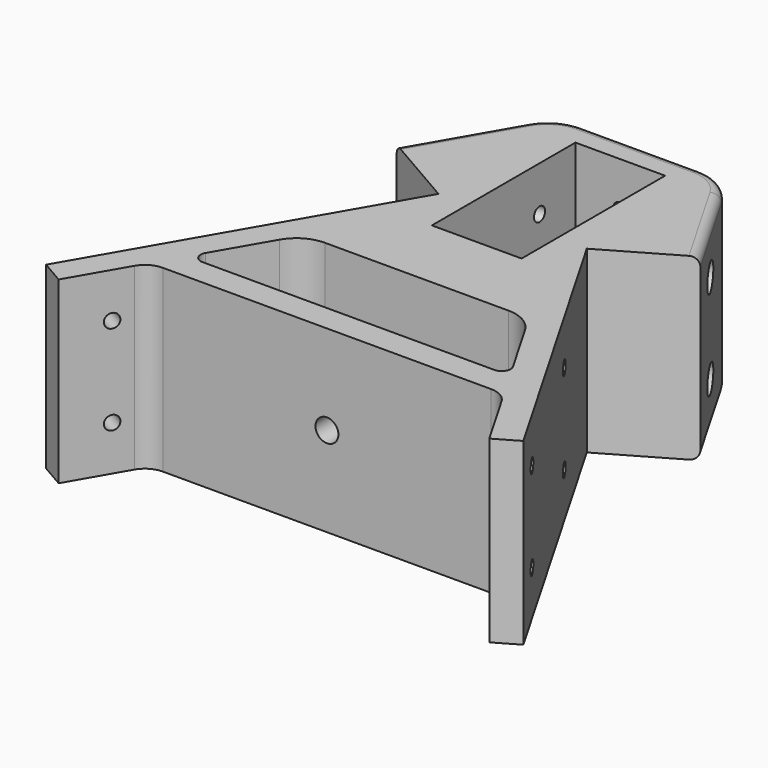
from build123d import *

# Parameters (mm, degrees)
SKETCH184_W          = 20
SKETCH184_H          = 40
PAD049_DEPTH         = 40
SKETCH185_R          = 1.55
POCKET100_DEPTH      = 6
SKETCH186_R          = 1.55
POCKET101_DEPTH      = 6
SKETCH187_R          = 1.55
POCKET102_DEPTH      = 8
SKETCH188_R          = 2.55
POCKET103_DEPTH      = 20
SKETCH189_R          = 2.55
POCKET104_DEPTH      = 14
POCKET105_DEPTH      = 5.5
SKETCH191_R          = 1.55
POCKET106_DEPTH      = 53.206
POCKET106_DEPTH_BACK = 53.206
SKETCH192_R          = 3
POCKET107_DEPTH      = 31.206
SKETCH193_R          = 3
POCKET108_DEPTH      = 31.206
FILLET047_R          = 2


with BuildPart() as part:
    # Sketch184 → Pad049 (new body)
    with BuildSketch(Plane.XY):
        with BuildLine():
            Line((-53.205, 0), (-16.535, 63.5143031136))
            Line((-16.535, 63.5143031136), (-33.8555080757, 73.5143031136))
            Line((-33.8555080757, 73.5143031136), (-21.7278633238, 94.52))
            ThreePointArc((-13.0676092859, 99.52), (-18.0676092859, 98.1802540378), (-21.7278633238, 94.52))
            Line((-13.0676092859, 99.52), (13.0676092859, 99.52))
            ThreePointArc((21.7278633238, 94.52), (18.0676092859, 98.1802540378), (13.0676092859, 99.52))
            Line((33.8555080757, 73.5143031136), (21.7278633238, 94.52))
            Line((16.535, 63.5143031136), (33.8555080757, 73.5143031136))
            Line((53.205, 0), (16.535, 63.5143031136))
            Line((53.205, 0), (48.0088475773, -3))
            Line((48.0088475773, -3), (40.9247597743, 9.27))
            ThreePointArc((40.9247597743, 9.27), (39.0946327554, 11.1001270189), (36.5946327554, 11.77))
            Line((-36.5946327554, 11.77), (36.5946327554, 11.77))
            ThreePointArc((-36.5946327554, 11.77), (-39.0946327554, 11.1001270189), (-40.9247597743, 9.27))
            Line((-48.0088475773, -3), (-40.9247597743, 9.27))
            Line((-53.205, 0), (-48.0088475773, -3))
        make_face()
        with Locations((0, 73.52)):
            Rectangle(SKETCH184_W, SKETCH184_H, mode=Mode.SUBTRACT)
        with BuildLine():
            Line((-27.3570284484, 32.77), (-34.2852316787, 20.77))
            ThreePointArc((-34.2852316787, 20.77), (-34.2852316787, 18.77), (-32.5531808711, 17.77))
            Line((-32.5531808711, 17.77), (32.5531808711, 17.77))
            ThreePointArc((32.5531808711, 17.77), (34.2852316787, 18.77), (34.2852316787, 20.77))
            Line((34.2852316787, 20.77), (27.3570284484, 32.77))
            ThreePointArc((27.3570284484, 32.77), (24.4288252181, 35.6982032303), (20.4288252181, 36.77))
            Line((20.4288252181, 36.77), (-20.4288252181, 36.77))
            ThreePointArc((-20.4288252181, 36.77), (-24.4288252181, 35.6982032303), (-27.3570284484, 32.77))
        make_face(mode=Mode.SUBTRACT)
    extrude(amount=PAD049_DEPTH)

    # Sketch185 (on DatumPlane) → Pocket100 (cut, symmetric)
    with BuildSketch(Plane(origin=(53, 0, 0), x_dir=(-0.5, 0.8660254038, 0), z_dir=(0.8660254038, 0.5, 0))):
        with Locations((47.2375, 30)):
            Circle(SKETCH185_R)
        with Locations((9.8975, 30)):
            Circle(SKETCH185_R)
        with Locations((47.2375, 10)):
            Circle(SKETCH185_R)
        with Locations((9.8975, 10)):
            Circle(SKETCH185_R)
    extrude(amount=POCKET100_DEPTH, both=True, mode=Mode.SUBTRACT)

    # Sketch186 (on DatumPlane) → Pocket101 (cut, symmetric)
    with BuildSketch(Plane(origin=(-53, 0, 0), x_dir=(0.5, 0.8660254038, 0), z_dir=(0.8660254038, -0.5, 0))):
        with Locations((47.2375, 30)):
            Circle(SKETCH186_R)
        with Locations((47.2375, 10)):
            Circle(SKETCH186_R)
        with Locations((9.8975, 10)):
            Circle(SKETCH186_R)
        with Locations((9.8975, 30)):
            Circle(SKETCH186_R)
    extrude(amount=POCKET101_DEPTH, both=True, mode=Mode.SUBTRACT)

    # Sketch187 → Pocket102 (cut)
    with BuildSketch(Plane(origin=(0, 99.52, 0), x_dir=(-1, 0, 0), z_dir=(0, 1, 0))):
        with Locations((0, 30)):
            Circle(SKETCH187_R)
        with Locations((0, 10)):
            Circle(SKETCH187_R)
    extrude(amount=-POCKET102_DEPTH, mode=Mode.SUBTRACT)

    # Sketch188 → Pocket103 (cut)
    with BuildSketch(Plane.XZ):
        with Locations((0, 20)):
            Circle(SKETCH188_R)
    extrude(amount=-POCKET103_DEPTH, mode=Mode.SUBTRACT)

    # Sketch189 → Pocket104 (cut)
    with BuildSketch(Plane.XZ.offset(-53.52)):
        with Locations((0, 20)):
            Circle(SKETCH189_R)
    extrude(amount=POCKET104_DEPTH, mode=Mode.SUBTRACT)

    # Sketch190 → Pocket105 (cut)
    with BuildSketch(Plane.XZ.offset(-53.52)):
        Polygon((4.1, 17.6328638963), (4.1, 22.3671361037), (0, 24.7342722074), (-4.1, 22.3671361037), (-4.1, 17.6328638963), (0, 15.2657277926), align=None)
    extrude(amount=POCKET105_DEPTH, mode=Mode.SUBTRACT)

    # Sketch191 → Pocket106 (cut, two sides)
    with BuildSketch(Plane.YZ) as pocket106_sk:
        with Locations((83.52, 30)):
            Circle(SKETCH191_R)
        with Locations((83.52, 10)):
            Circle(SKETCH191_R)
    extrude(amount=-POCKET106_DEPTH, mode=Mode.SUBTRACT)
    extrude(pocket106_sk.sketch, amount=POCKET106_DEPTH_BACK, mode=Mode.SUBTRACT)

    # Sketch192 → Pocket107 (cut, through all)
    with BuildSketch(Plane.YZ.offset(22)):
        with Locations((83.52, 30)):
            Circle(SKETCH192_R)
        with Locations((83.52, 10)):
            Circle(SKETCH192_R)
    extrude(amount=POCKET107_DEPTH, mode=Mode.SUBTRACT)

    # Sketch193 → Pocket108 (cut, through all)
    with BuildSketch(Plane.YZ.offset(-22)):
        with Locations((83.52, 30)):
            Circle(SKETCH193_R)
        with Locations((83.52, 10)):
            Circle(SKETCH193_R)
    extrude(amount=-POCKET108_DEPTH, mode=Mode.SUBTRACT)

    # Fillet047
    fillet047_edges = [part.edges().sort_by_distance(p)[0] for p in [
        (27.791686, 84.017152, 40),
        (18.067609, 98.180254, 40),
        (0, 99.52, 40),
        (-18.067609, 98.180254, 40),
        (-27.791686, 84.017152, 40),
        (27.791686, 84.017152, 0),
        (18.067609, 98.180254, 0),
        (0, 99.52, 0),
        (-18.067609, 98.180254, 0),
        (-27.791686, 84.017152, 0),
    ]]
    fillet(fillet047_edges, radius=FILLET047_R)


solid = part.part
